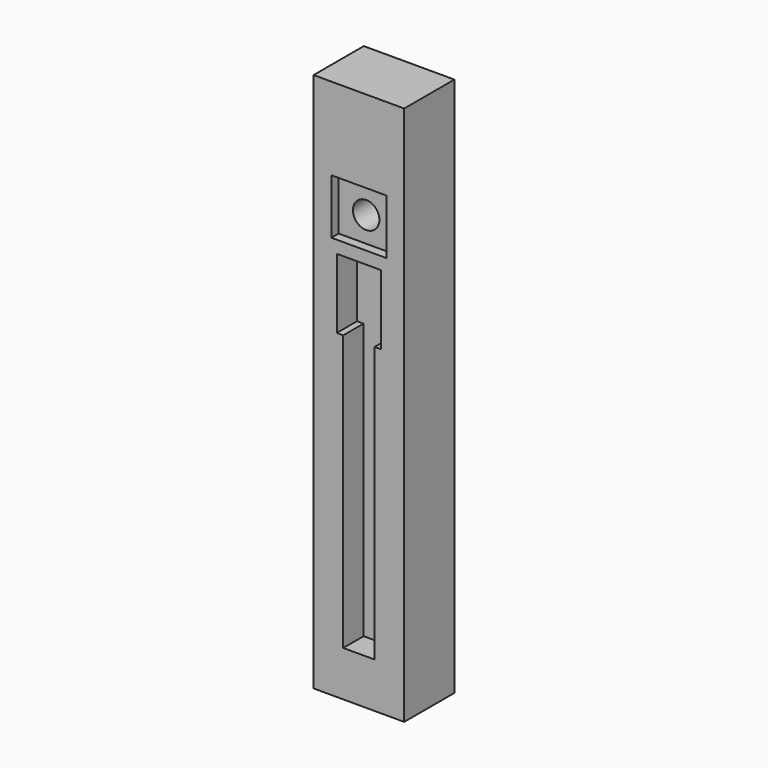
from build123d import *

# Parameters (mm, degrees)
SKETCH_W        = 130
SKETCH_H        = 90
PAD_DEPTH       = 387.5
POCKET_DEPTH    = 36.5
SKETCH002_R     = 19
POCKET001_DEPTH = 90.001
SKETCH003_W     = 79
SKETCH003_H     = 79
POCKET002_DEPTH = 13


with BuildPart() as part:
    # Sketch → Pad (new body, symmetric)
    with BuildSketch(Plane.XY):
        Rectangle(SKETCH_W, SKETCH_H)
    extrude(amount=PAD_DEPTH, both=True)

    # Sketch001 → Pocket (cut)
    with BuildSketch(Plane.XZ.offset(45)):
        Polygon((0, 172.5), (-31.75, 172.5), (-31.75, 72.5), (-22.5, 72.5), (-22.5, -322.5), (0, -322.5), align=None)
    pocket = extrude(amount=-POCKET_DEPTH, mode=Mode.SUBTRACT)

    # Mirrored: Pocket across Sketch001 V_Axis
    add(pocket.mirror(Plane(origin=(0, -45, 0), x_dir=(0, -1, 0), z_dir=(1, 0, 0))), mode=Mode.SUBTRACT)

    # Sketch002 → Pocket001 (cut, through all)
    with BuildSketch(Plane.XZ.offset(45)):
        with Locations((0, 226.5)):
            Circle(SKETCH002_R)
    extrude(amount=-POCKET001_DEPTH, mode=Mode.SUBTRACT)

    # Sketch003 → Pocket002 (cut)
    with BuildSketch(Plane.XZ.offset(45)):
        with Locations((0, 229.74)):
            Rectangle(SKETCH003_W, SKETCH003_H)
    extrude(amount=-POCKET002_DEPTH, mode=Mode.SUBTRACT)


solid = part.part
